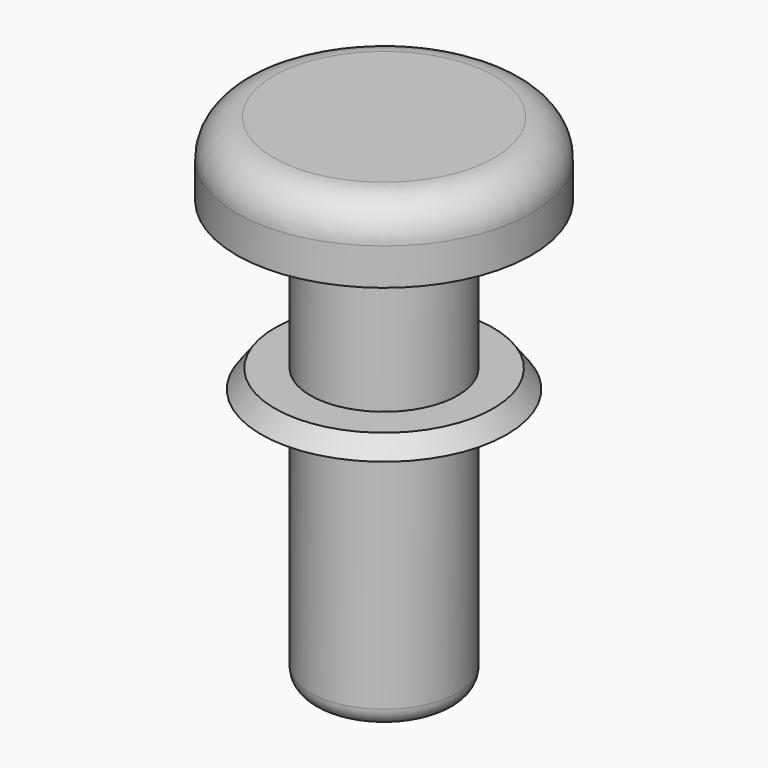
from build123d import *


with BuildPart() as f1:
    # F0 (on Right) → F1 (revolve)
    with BuildSketch(Plane.YZ):
        with BuildLine():
            Line((0, 5.89504), (0, 13.952179))
            Line((0, 13.952179), (-3, 13.952179))
            ThreePointArc((-3, 13.952179), (-3.707107, 13.659285), (-4, 12.952179))
            Line((-4, 12.952179), (-4, 11.952179))
            Line((-4, 11.952179), (-2, 11.952179))
            Line((-2, 11.952179), (-2, 7.952179))
            Line((-2, 7.952179), (-2.96099, 7.952179))
            Line((-2.96099, 7.952179), (-3.330959, 7.452179))
            Line((-3.330959, 7.452179), (-2, 7.452179))
            Line((-2, 7.452179), (-2, 0.852179))
            ThreePointArc((-2, 0.852179), (-1.853553, 0.498625), (-1.5, 0.352179))
            Line((-1.5, 0.352179), (-0.825782, 0.352179))
            Line((-0.825782, 0.352179), (-0.825782, 5.89504))
            Line((-0.825782, 5.89504), (0, 5.89504))
        make_face()
    revolve(axis=Axis((0, 0, 9.923609), (0, 0, -1)))


solid = f1.part
